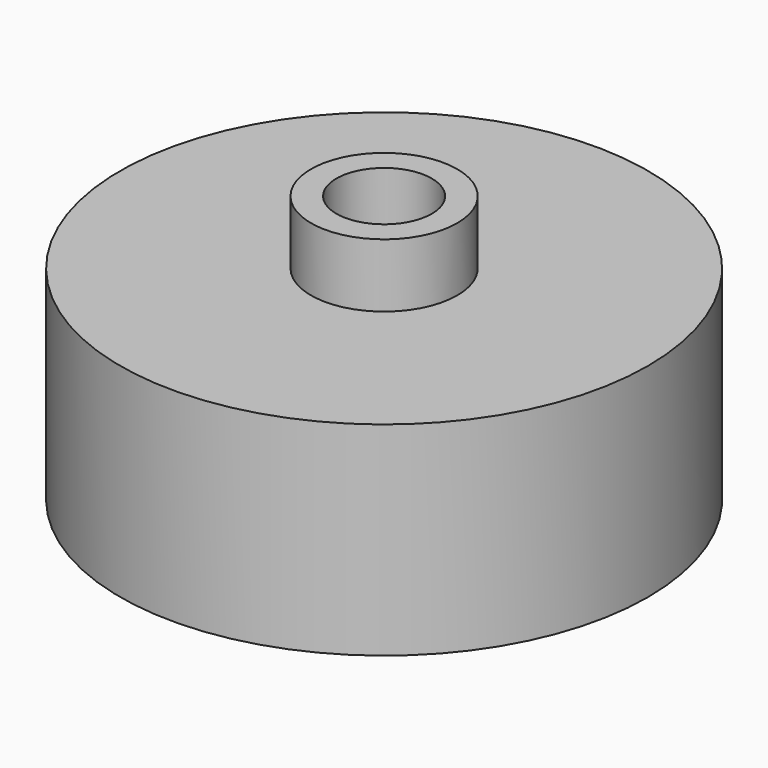
from build123d import *

# Parameters (mm, degrees)
SKETCH_R     = 20.75
PAD_DEPTH    = 16
SKETCH001_R  = 5.75
PAD001_DEPTH = 5
SKETCH002_R  = 3.75
POCKET_DEPTH = 21.001


with BuildPart() as part:
    # Sketch → Pad (new body)
    with BuildSketch(Plane.XY):
        Circle(SKETCH_R)
    extrude(amount=PAD_DEPTH)

    # Sketch001 (on Face3 of Pad) → Pad001 (join)
    with BuildSketch(Plane.XY.offset(16)):
        Circle(SKETCH001_R)
    extrude(amount=PAD001_DEPTH)

    # Sketch002 (on Face5 of Pad001) → Pocket (cut, through all)
    with BuildSketch(Plane.XY.offset(21)):
        Circle(SKETCH002_R)
    extrude(amount=-POCKET_DEPTH, mode=Mode.SUBTRACT)


solid = part.part
